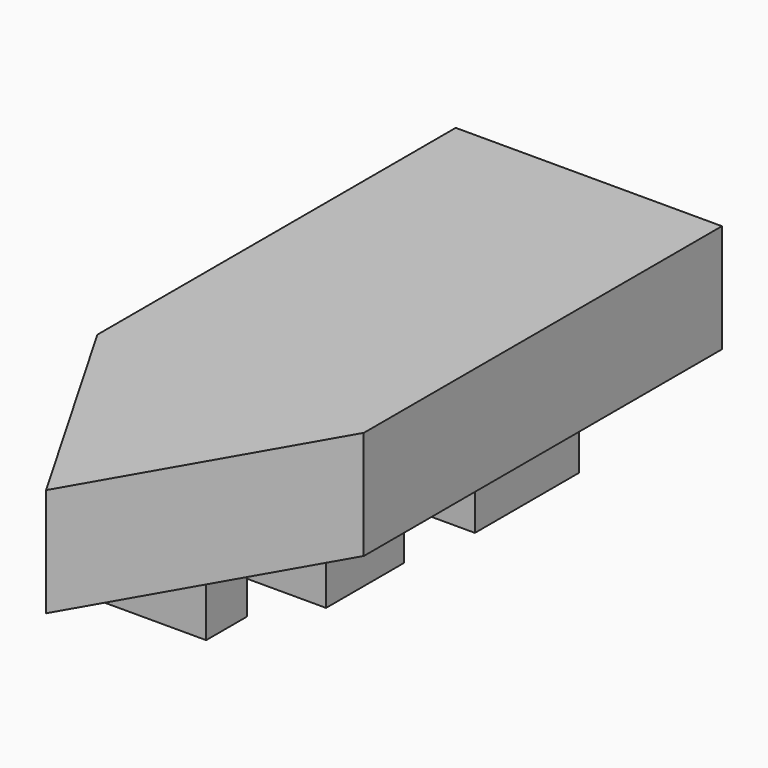
from build123d import *

# Parameters (mm, degrees)
F1_DEPTH = 34.544
F2_W     = 40.292801
F2_H     = 16.280751
F3_DEPTH = 17.272
F4_W     = 62.371195
F4_H     = 41.358443
F4_W_2   = 57.368159
F4_H_2   = 31.046361
F5_DEPTH = 20.066


with BuildPart() as f1:
    # F0 (on Top) → F1 (new body)
    with BuildSketch(Plane.XY):
        Polygon((-42.372001, 77.851459), (-42.372001, -33.529375), (42.372001, -33.529375), (42.451348, -33.529375), (42.451348, 77.851459), (42.451348, 109.199524), (-42.372001, 109.199524), align=None)
        Polygon((42.372001, -33.529375), (-42.372001, -33.529375), (0, -106.919833), align=None)
    extrude(amount=F1_DEPTH)

    # F2 (on Top) → F3 (join)
    with BuildSketch(Plane.XY):
        with Locations((-0.719514, -59.306254)):
            Rectangle(F2_W, F2_H)
    extrude(amount=-F3_DEPTH)

    # F4 (on Top) → F5 (join)
    with BuildSketch(Plane.XY):
        with Locations((1.000606, 44.332735)):
            Rectangle(F4_W, F4_H)
        with Locations((-0.166768, -15.52318)):
            Rectangle(F4_W_2, F4_H_2)
    extrude(amount=-F5_DEPTH)


solid = f1.part
